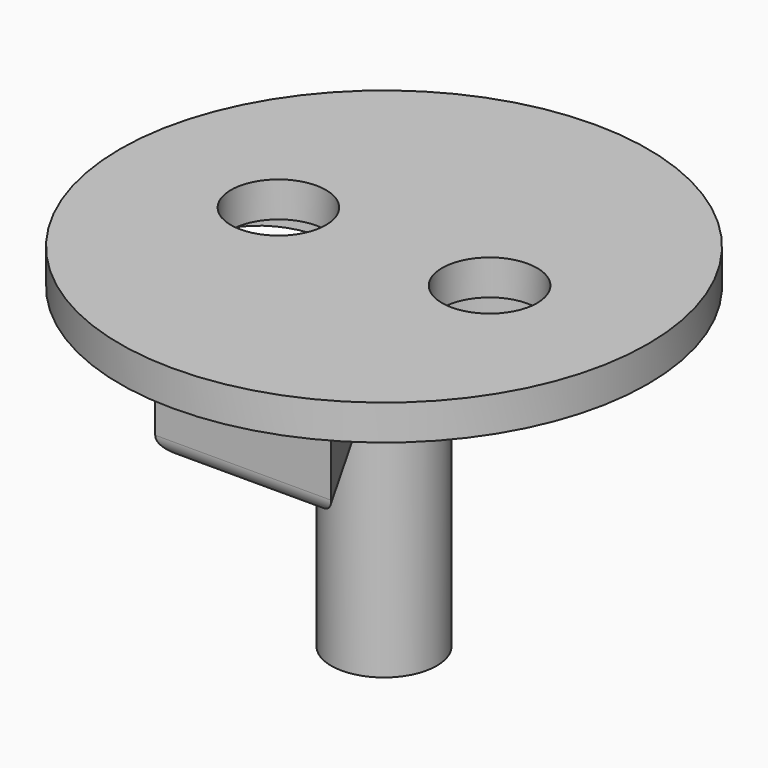
from build123d import *

# Parameters (mm, degrees)
SKETCH003_R   = 15
SKETCH003_R_2 = 2.7
PAD001_DEPTH  = 2
SKETCH004_R   = 4.6
PAD002_DEPTH  = 3
PAD003_DEPTH  = 6
FILLET001_R   = 1
SKETCH_R      = 3
SKETCH_R_2    = 1.2
PAD_DEPTH     = 15
FILLET_R      = 1
CHAMFER_SIZE  = 1.5


with BuildPart() as pcbmount:
    # Sketch003 → Pad001 (new body)
    with BuildSketch(Plane.XY.offset(13)):
        Circle(SKETCH003_R)
        with Locations((-6, 0)):
            Circle(SKETCH003_R_2, mode=Mode.SUBTRACT)
        with Locations((6, 0)):
            Circle(SKETCH003_R_2, mode=Mode.SUBTRACT)
    extrude(amount=PAD001_DEPTH)


with BuildPart() as pad002:
    # Sketch004 → Pad002 (new body)
    with BuildSketch(Plane.XY.offset(10)):
        with Locations((-6, 0)):
            Circle(SKETCH004_R)
        with Locations((6, 0)):
            Circle(SKETCH004_R)
    extrude(amount=PAD002_DEPTH)


with BuildPart() as cut:
    # Cone → Cone (revolve)
    with BuildSketch(Plane(origin=(0, 0, 10), x_dir=(1, 0, 0), z_dir=(0, -1, 0))):
        Polygon((0, 0), (3, 0), (15, 3), (0, 3), align=None)
    revolve(axis=Axis((0, 0, 10), (0, 0, 1)))

    # Cut: cut Pad002
    add(pad002.part, mode=Mode.SUBTRACT)


with BuildPart() as fillet001:
    # Sketch005 → Pad003 (new body)
    with BuildSketch(Plane.XY.offset(13)):
        Polygon((-5, 10), (5, 10), (1, 3), (1, 2), (-1, 2), (-1, 3), align=None)
        Polygon((1, -3), (5, -10), (-5, -10), (-1, -3), (-1, -2), (1, -2), align=None)
    extrude(amount=-PAD003_DEPTH)

    # Fillet001
    fillet001_edges = [fillet001.edges().sort_by_distance(p)[0] for p in [
        (0, 10, 7),
        (3, 6.5, 7),
        (-3, 6.5, 7),
        (3, -6.5, 7),
        (0, -10, 7),
        (-3, -6.5, 7),
    ]]
    fillet(fillet001_edges, radius=FILLET001_R)


with BuildPart() as chamfer_body:
    # Sketch → Pad (new body)
    with BuildSketch(Plane.XY.offset(-5)):
        Circle(SKETCH_R)
        Circle(SKETCH_R_2, mode=Mode.SUBTRACT)
    extrude(amount=PAD_DEPTH)

    # Fillet
    fillet_edges = [chamfer_body.edges().sort_by_distance(p)[0] for p in [
        (-1.2, 0, -5),
    ]]
    fillet(fillet_edges, radius=FILLET_R)

    # Chamfer
    chamfer_edges = [chamfer_body.edges().sort_by_distance(p)[0] for p in [
        (-3, 0, 10),
    ]]
    chamfer(chamfer_edges, length=CHAMFER_SIZE)


solid = Compound([pcbmount.part, cut.part, fillet001.part, chamfer_body.part])
